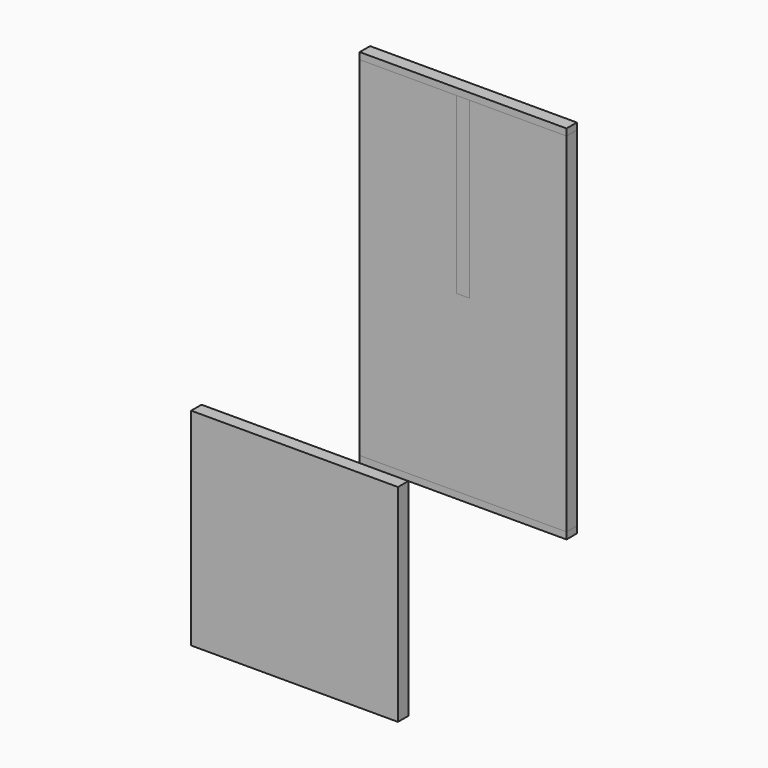
from build123d import *

# Parameters (mm, degrees)
F0_W      = 50.8
F0_H      = 88.9
F1_DEPTH  = 3.175
F2_DEPTH  = 3.175
F4_DEPTH  = 3.175
F5_W      = 50.8
F5_H      = 85.598
F6_DEPTH  = 3.175
F7_W      = 3.2004
F7_H      = 42.799
F8_DEPTH  = 25.4
F10_DEPTH = 3.175


with BuildPart() as f1:
    # F0 (on Front) → F1 (new body)
    with BuildSketch(Plane.XZ):
        Rectangle(F0_W, F0_H)
    extrude(amount=F1_DEPTH)

    # F0 (on Front) → F2 (join)
    with BuildSketch(Plane.XZ):
        Rectangle(F0_W, F0_H)
    extrude(amount=F2_DEPTH)


with BuildPart() as f4:
    # F3 (on face) → F4 (new body)
    with BuildSketch(Plane.XZ.offset(3.175)):
        Polygon((-13.4667269886, -95.25), (-13.4667269886, -44.45), (-25.4, -44.45), (-64.2667269886, -44.45), (-64.2667269886, -95.25), align=None)
    extrude(amount=F4_DEPTH)


with BuildPart() as f6:
    # F5 (on Front) → F6 (new body)
    with BuildSketch(Plane.XZ):
        Rectangle(F5_W, F5_H)
    extrude(amount=F6_DEPTH)

    # F7 (on face) → F8 (cut)
    with BuildSketch(Plane.XZ.offset(3.175)):
        with Locations((0, -21.3995)):
            Rectangle(F7_W, F7_H)
    extrude(amount=-F8_DEPTH, mode=Mode.SUBTRACT)


with BuildPart() as f10:
    # F9 (on Front) → F10 (new body)
    with BuildSketch(Plane.XZ):
        Polygon((-25.4, -42.799), (25.4, -42.799), (25.4, 42.799), (1.6002, 42.799), (1.6002, 0), (-1.6002, 0), (-1.6002, 42.799), (-25.4, 42.799), align=None)
    extrude(amount=F10_DEPTH)


solid = Compound([f1.part, f4.part, f6.part, f10.part])
